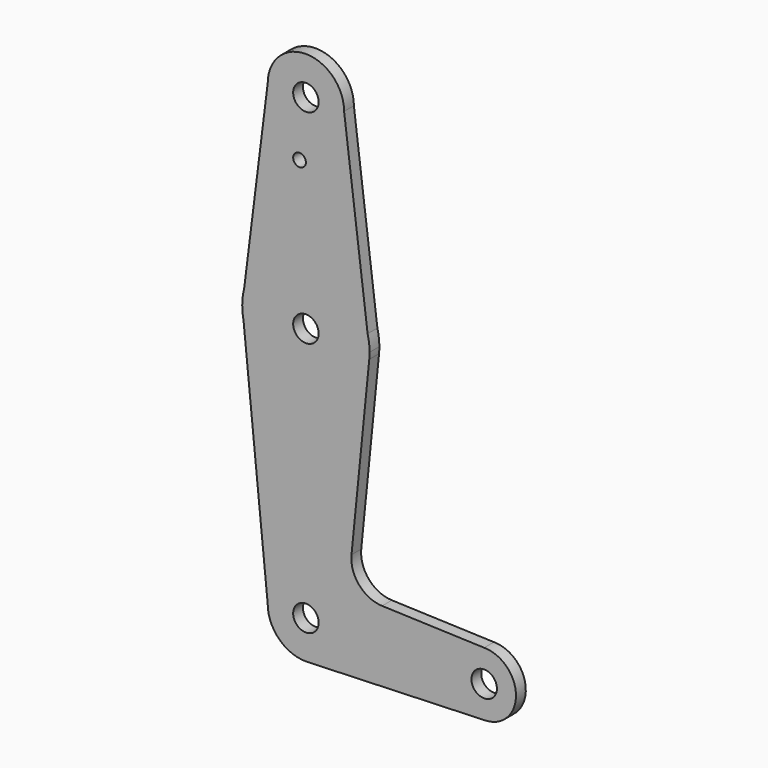
from build123d import *

# Parameters (mm, degrees)
F0_R     = 3.175
F0_R_2   = 1.5875
F1_DEPTH = 3.048


with BuildPart() as f1:
    # F0 (on Front) → F1 (new body)
    with BuildSketch(Plane.XZ):
        with BuildLine():
            ThreePointArc((-9.525, 114.3), (0, 104.775), (9.525, 114.3))
            ThreePointArc((9.525, 114.3), (0, 123.825), (-9.525, 114.3))
        make_face()
        with Locations((0, 114.3)):
            Circle(F0_R, mode=Mode.SUBTRACT)
        with BuildLine():
            Line((15.3865384615, 67.4076923077), (9.525, 114.3))
            ThreePointArc((9.525, 114.3), (0, 104.775), (-9.525, 114.3))
            Line((-9.525, 114.3), (-15.3865384615, 67.4076923077))
            ThreePointArc((-15.3865384615, 67.4076923077), (0, 79.375), (15.3865384615, 67.4076923077))
        make_face()
        with Locations((-1.5875, 100.0252)):
            Circle(F0_R_2, mode=Mode.SUBTRACT)
        with BuildLine():
            Line((15.875, 63.5), (15.3865384615, 67.4076923077))
            ThreePointArc((15.3865384615, 67.4076923077), (0, 79.375), (-15.3865384615, 67.4076923077))
            Line((-15.3865384615, 67.4076923077), (-15.875, 63.5))
            Line((-15.875, 63.5), (-15.5606435644, 60.3564356436))
            ThreePointArc((-15.5606435644, 60.3564356436), (0.7907925173, 47.6447083851), (15.7962153946, 61.9203784605))
            Line((15.7962153946, 61.9203784605), (15.875, 63.5))
        make_face()
        with Locations((0, 63.5)):
            Circle(F0_R, mode=Mode.SUBTRACT)
        with BuildLine():
            ThreePointArc((15.875, 63.5), (15.7524112928, 65.4690514116), (15.3865384615, 67.4076923077))
            Line((15.3865384615, 67.4076923077), (15.875, 63.5))
        make_face()
        with BuildLine():
            Line((-15.875, 63.5), (-15.3865384615, 67.4076923077))
            ThreePointArc((-15.3865384615, 67.4076923077), (-15.7524112928, 65.4690514116), (-15.875, 63.5))
        make_face()
        with BuildLine():
            ThreePointArc((15.7962153946, 61.9203784605), (15.8552916149, 62.7092074827), (15.875, 63.5))
            Line((15.875, 63.5), (15.7962153946, 61.9203784605))
        make_face()
        with BuildLine():
            Line((-15.5606435644, 60.3564356436), (-15.875, 63.5))
            ThreePointArc((-15.875, 63.5), (-15.7962153946, 61.9203784605), (-15.5606435644, 60.3564356436))
        make_face()
        with BuildLine():
            Line((11.3624789203, 17.5830137179), (15.7962153946, 61.9203784605))
            ThreePointArc((15.7962153946, 61.9203784605), (0.7907925173, 47.6447083851), (-15.5606435644, 60.3564356436))
            Line((-15.5606435644, 60.3564356436), (-9.525, 0))
            ThreePointArc((-9.525, 0), (0, 9.525), (9.525, 0))
            ThreePointArc((9.525, 0), (6.9705567315, -6.4912990883), (0.6773435479, -9.500885786))
            Line((0.6773435479, -9.500885786), (44.7324052746, -7.9324746146))
            ThreePointArc((44.7324052746, -7.9324746146), (36.5137564458, -0.1412249921), (44.45, 7.9375))
            Line((44.45, 7.9375), (18.989468784, 8.8468046863))
            ThreePointArc((18.989468784, 8.8468046863), (13.2842510174, 11.5633746711), (11.3624789203, 17.5830137179))
        make_face()
        with BuildLine():
            ThreePointArc((9.525, 0), (0, 9.525), (-9.525, 0))
            ThreePointArc((-9.525, 0), (-6.7351920908, -6.7351920908), (0, -9.525))
            Line((0, -9.525), (0.6773435479, -9.500885786))
            ThreePointArc((0.6773435479, -9.500885786), (6.9705567315, -6.4912990883), (9.525, 0))
        make_face()
        Circle(F0_R, mode=Mode.SUBTRACT)
        with BuildLine():
            Line((0.6773435479, -9.500885786), (0, -9.525))
            ThreePointArc((0, -9.525), (0.3388863295, -9.5189695375), (0.6773435479, -9.500885786))
        make_face()
        with BuildLine():
            ThreePointArc((52.3875, 0), (50.0626600757, 5.6126600757), (44.45, 7.9375))
            ThreePointArc((44.45, 7.9375), (36.5137564458, -0.1412249921), (44.7324052746, -7.9324746146))
            ThreePointArc((44.7324052746, -7.9324746146), (50.1616327839, -5.5119104847), (52.3875, 0))
        make_face()
        with Locations((44.45, 0)):
            Circle(F0_R, mode=Mode.SUBTRACT)
    extrude(amount=F1_DEPTH)


solid = f1.part
